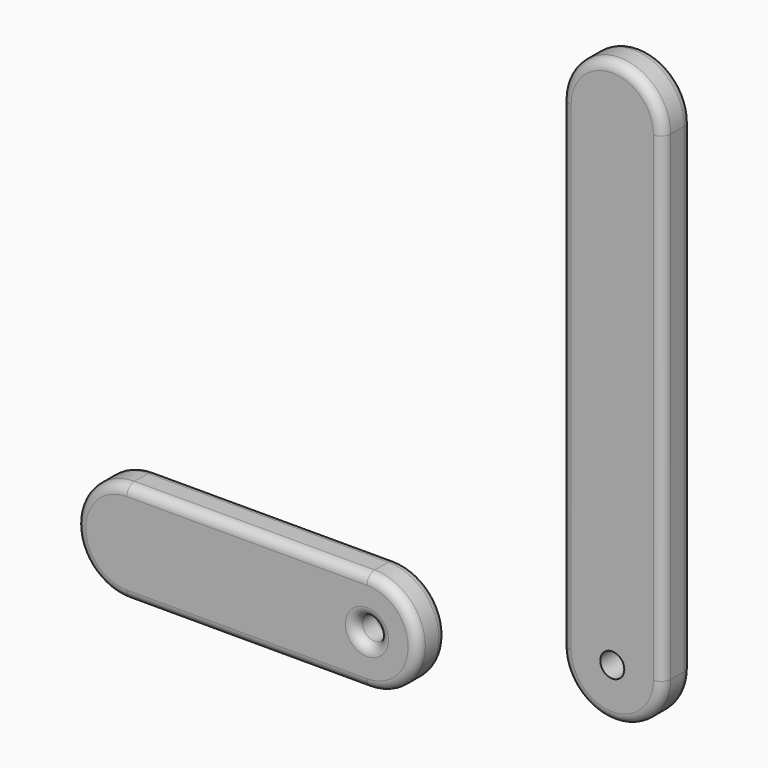
from build123d import *

# Parameters (mm, degrees)
F1_R     = 6.35
F2_DEPTH = 19.05
F0_R     = 6.35
F3_DEPTH = 19.05
F4_R     = 5.08
F5_R     = 5.08


with BuildPart() as f2:
    # F1 (on Front) → F2 (new body)
    with BuildSketch(Plane.XZ):
        with BuildLine():
            Line((-229.942699, -53.669194), (-102.942699, -53.669194))
            ThreePointArc((-102.942699, -53.669194), (-76.108102, -26.834597), (-102.942699, 0))
            Line((-102.942699, 0), (-229.942699, 0))
            ThreePointArc((-229.942699, 0), (-256.777295, -26.834597), (-229.942699, -53.669194))
        make_face()
        with Locations((-102.942699, -26.834597)):
            Circle(F1_R, mode=Mode.SUBTRACT)
    extrude(amount=F2_DEPTH)

    # F5
    f5_edges = [f2.edges().sort_by_distance(p)[0] for p in [
        (-256.777295, -19.05, -26.834597),
        (-166.442699, -19.05, -53.669194),
        (-76.108102, -19.05, -26.834597),
        (-166.442699, -19.05, 0),
        (-109.292699, -19.05, -26.834597),
        (-256.777295, 0, -26.834597),
        (-166.442699, 0, -53.669194),
        (-76.108102, 0, -26.834597),
        (-166.442699, 0, 0),
        (-109.292699, 0, -26.834597),
    ]]
    fillet(f5_edges, radius=F5_R)


with BuildPart() as f3:
    # F0 (on Front) → F3 (new body)
    with BuildSketch(Plane.XZ):
        with BuildLine():
            ThreePointArc((0, 0), (26.8351, -26.8351), (53.6702, 0))
            Line((53.6702, 0), (53.6702, 254))
            ThreePointArc((53.6702, 254), (26.8351, 280.8351), (0, 254))
            Line((0, 254), (0, 0))
        make_face()
        with Locations((26.8351, 0)):
            Circle(F0_R, mode=Mode.SUBTRACT)
    extrude(amount=F3_DEPTH)

    # F4
    f4_edges = [f3.edges().sort_by_distance(p)[0] for p in [
        (0, -19.05, 127),
        (53.6702, 0, 127),
        (53.6702, -19.05, 127),
        (0, 0, 127),
    ]]
    fillet(f4_edges, radius=F4_R)


solid = Compound([f2.part, f3.part])
